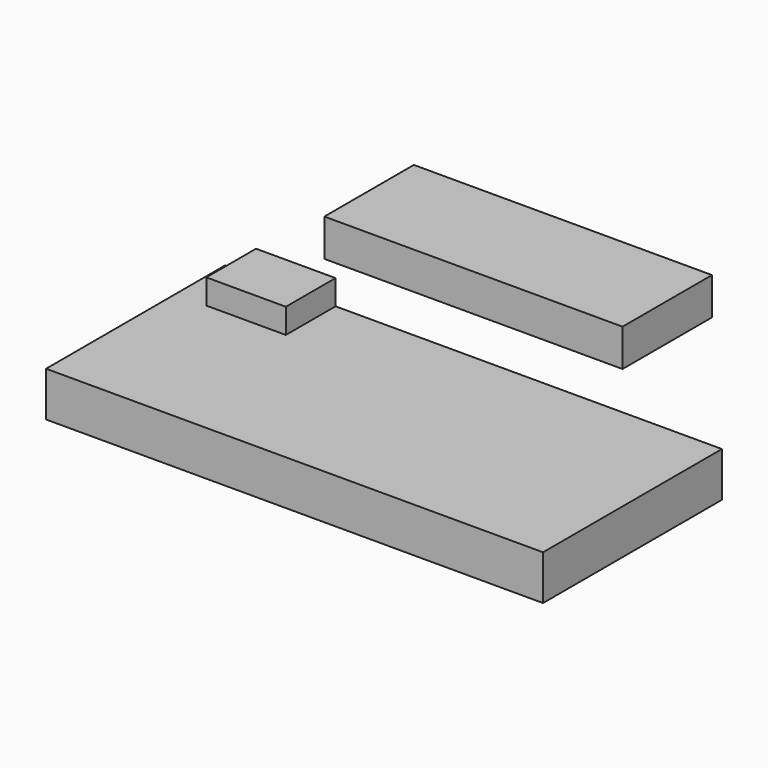
from build123d import *

# Parameters (mm, degrees)
F0_W     = 50.8
F0_H     = 22.86
F1_DEPTH = 7.112
F4_W     = 30.48
F4_H     = 11.43
F5_DEPTH = 3.81
F7_DEPTH = 2.54


with BuildPart() as f1:
    # F0 (on Top) → F1 (new body)
    with BuildSketch(Plane.XY):
        with Locations((0, -11.43)):
            Rectangle(F0_W, F0_H)
    extrude(amount=F1_DEPTH)

    # F2 (on face) → F7 (cut)
    with BuildSketch(Plane.XY.offset(7.112)):
        Polygon((-22.225, -6.35), (-22.225, 0), (-25.4, 0), (-25.4, -22.86), (25.4, -22.86), (25.4, 0), (-14.097, 0), (-14.097, -6.35), align=None)
    extrude(amount=-F7_DEPTH, mode=Mode.SUBTRACT)


with BuildPart() as f5:
    # F4 (on face) → F5 (new body)
    with BuildSketch(Plane.XY):
        with Locations((-10.16, 18.415)):
            Rectangle(F4_W, F4_H)
    extrude(amount=F5_DEPTH)


solid = Compound([f1.part, f5.part])
